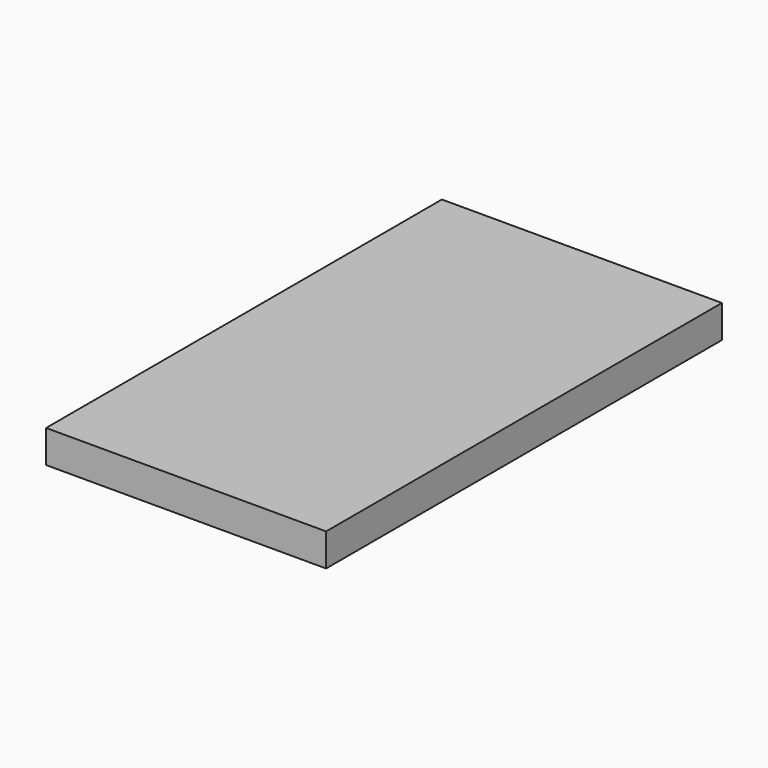
from build123d import *

# Parameters (mm, degrees)
SKETCH_W  = 300
SKETCH_H  = 35
PAD_DEPTH = 530


with BuildPart() as part:
    # Sketch → Pad (new body)
    with BuildSketch(Plane.XZ):
        with Locations((-150, 17.5)):
            Rectangle(SKETCH_W, SKETCH_H)
    extrude(amount=PAD_DEPTH)


solid = part.part
